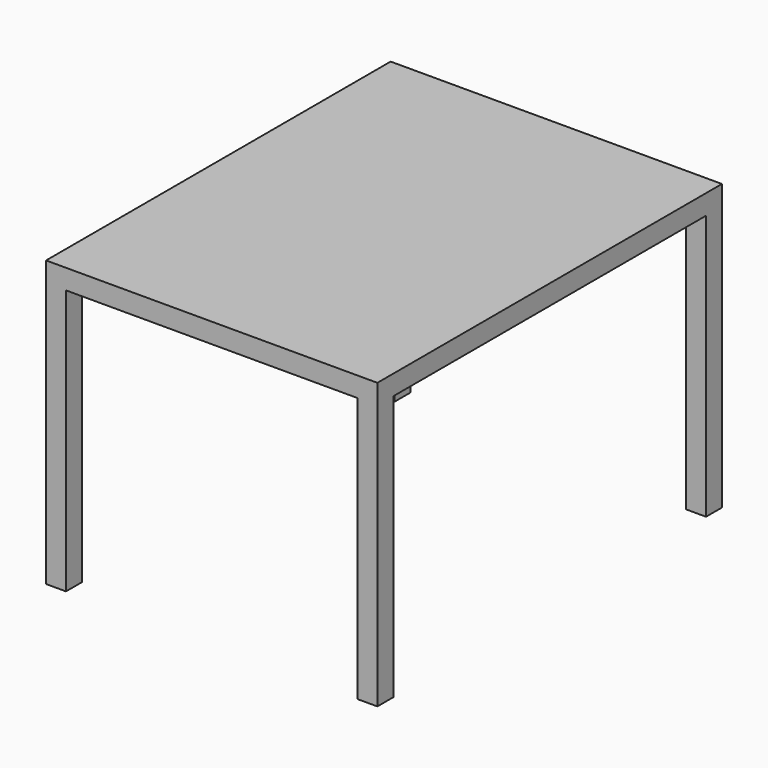
from build123d import *

# Parameters (mm, degrees)
F1_W     = 500
F1_H     = 650
F2_DEPTH = 30
F3_W     = 30
F3_H     = 30
F4_DEPTH = 400


with BuildPart() as f2:
    # F1 (on offset) → F2 (new body)
    with BuildSketch(Plane.XY.offset(400)):
        Rectangle(F1_W, F1_H)
    extrude(amount=F2_DEPTH)

    # F3 (on Top) → F4 (join, through all)
    with BuildSketch(Plane.XY):
        with Locations((-235, -310)):
            Rectangle(F3_W, F3_H)
        with Locations((-235, 310)):
            Rectangle(F3_W, F3_H)
        with Locations((235, -310)):
            Rectangle(F3_W, F3_H)
        with Locations((235, 310)):
            Rectangle(F3_W, F3_H)
    extrude(amount=F4_DEPTH)


solid = f2.part
